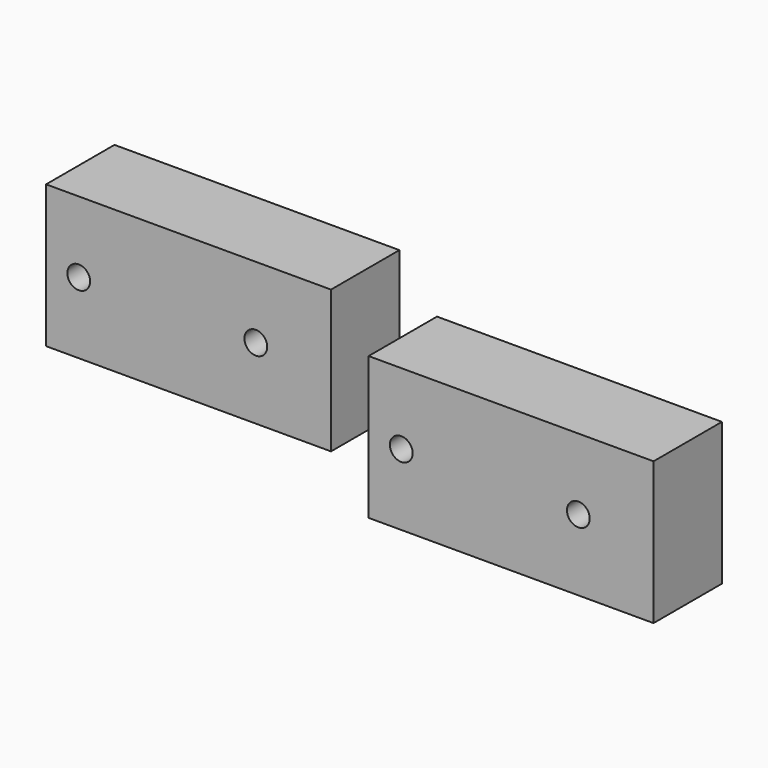
from build123d import *

# Parameters (mm, degrees)
F0_W     = 100
F0_H     = 50
F0_R     = 4
F1_DEPTH = 30


with BuildPart() as f1:
    # F0 (on Front) → F1 (new body)
    with BuildSketch(Plane.XZ):
        with Locations((-78.783983, -8.178654)):
            Rectangle(F0_W, F0_H)
        with Locations((-117.323846, -8.178654)):
            Circle(F0_R, mode=Mode.SUBTRACT)
        with Locations((-55.175673, -8.178654)):
            Circle(F0_R, mode=Mode.SUBTRACT)
        with Locations((34.410459, -24.42448)):
            Rectangle(F0_W, F0_H)
        with Locations((-4.129404, -24.42448)):
            Circle(F0_R, mode=Mode.SUBTRACT)
        with Locations((58.018768, -24.42448)):
            Circle(F0_R, mode=Mode.SUBTRACT)
    extrude(amount=F1_DEPTH)


solid = f1.part
